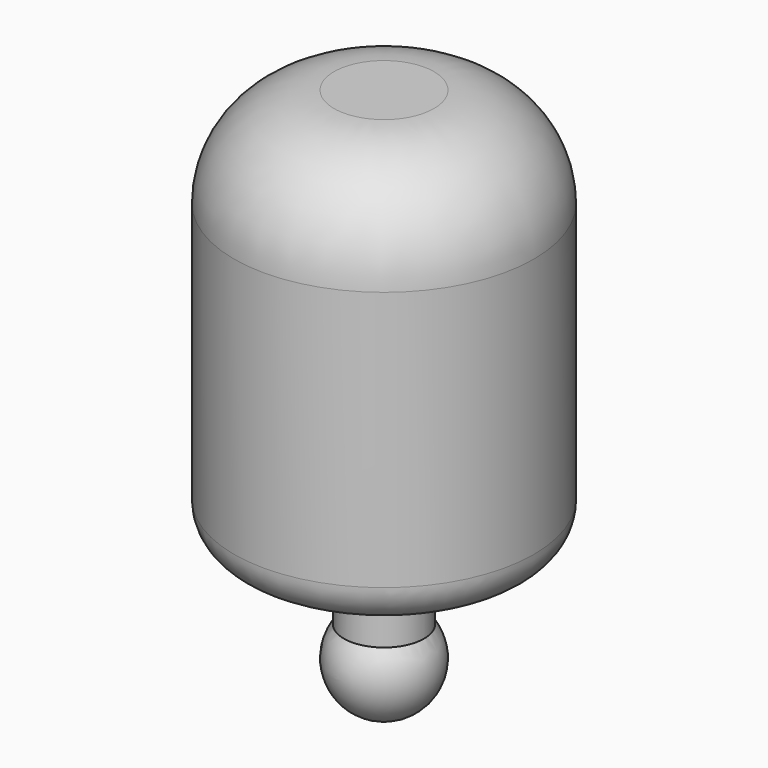
from build123d import *

# Parameters (mm, degrees)
F0_R     = 7.5
F1_DEPTH = 20
F2_R     = 5
F3_R     = 2
F4_DEPTH = 5
F7_R     = 2


with BuildPart() as f1:
    # F0 (on Top) → F1 (new body)
    with BuildSketch(Plane.XY):
        Circle(F0_R)
    extrude(amount=F1_DEPTH)

    # F2
    f2_edges = [f1.edges().sort_by_distance(p)[0] for p in [
        (-7.5, 0, 20),
    ]]
    fillet(f2_edges, radius=F2_R)

    # F3 (on face) → F4 (join)
    with BuildSketch(Plane(origin=(0, 0, 0), x_dir=(1, 0, 0), z_dir=(0, 0, -1))):
        Circle(F3_R)
    extrude(amount=F4_DEPTH)

    # F5 (on face) → F6 (revolve)
    with BuildSketch(Plane(origin=(0, 0, -5), x_dir=(1, 0, 0), z_dir=(0, 0, -1))):
        with BuildLine():
            Line((0, 2), (0, 2.5))
            ThreePointArc((0, 2.5), (-2.5, 0), (0, -2.5))
            Line((0, -2.5), (0, -2))
            ThreePointArc((0, -2), (-2, 0), (0, 2))
        make_face()
        with BuildLine():
            Line((0, -2), (0, 2))
            ThreePointArc((0, 2), (-2, 0), (0, -2))
        make_face()
        with BuildLine():
            ThreePointArc((2, 0), (1.4142135624, 1.4142135624), (0, 2))
            Line((0, 2), (0, -2))
            ThreePointArc((0, -2), (1.4142135624, -1.4142135624), (2, 0))
        make_face()
    revolve(axis=Axis((0, 0, -5), (0, 1, 0)))

    # F7
    f7_edges = [f1.edges().sort_by_distance(p)[0] for p in [
        (-7.5, 0, 0),
    ]]
    fillet(f7_edges, radius=F7_R)


solid = f1.part
